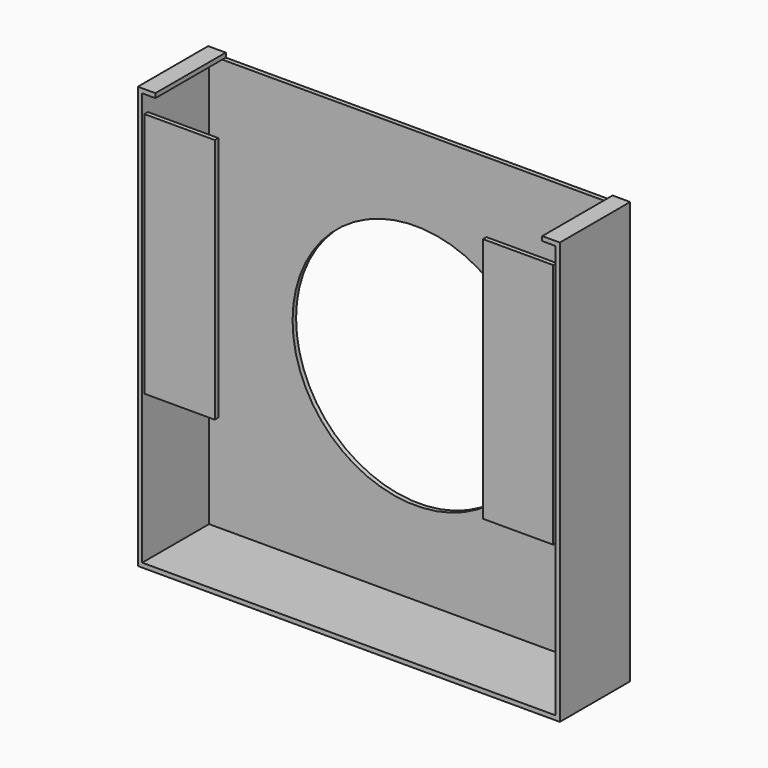
from build123d import *

# Parameters (mm, degrees)
F0_W     = 304.8
F0_H     = 304.8
F1_DEPTH = 63.5
F2_T     = -3.175
F3_R     = 88.9
F4_DEPTH = 3.175
F5_W     = 50.8
F5_H     = 177.8
F6_DEPTH = 3.175
F7_W     = 279.4
F7_H     = 63.5
F8_DEPTH = 3.175


with BuildPart() as f1:
    # F0 (on Front) → F1 (new body)
    with BuildSketch(Plane.XZ):
        Rectangle(F0_W, F0_H)
    extrude(amount=F1_DEPTH)

    # F2
    f2_openings = [f1.faces().sort_by_distance(p)[0] for p in [
        (0, -63.5, 0),
    ]]
    offset(amount=F2_T, openings=f2_openings)

    # F3 (on face) → F4 (cut, through all)
    with BuildSketch(Plane.XZ.offset(3.175)):
        Circle(F3_R)
    extrude(amount=-F4_DEPTH, mode=Mode.SUBTRACT)

    # F7 (on face) → F8 (cut)
    with BuildSketch(Plane.XY.offset(152.4)):
        with Locations((0, -31.75)):
            Rectangle(F7_W, F7_H)
    extrude(amount=-F8_DEPTH, mode=Mode.SUBTRACT)


with BuildPart() as f6:
    # F5 (on face) → F6 (new body)
    with BuildSketch(Plane.XZ.offset(63.5)):
        with Locations((-122.2375, 47.625)):
            Rectangle(F5_W, F5_H)
        with Locations((122.2375, 47.625)):
            Rectangle(F5_W, F5_H)
    extrude(amount=-F6_DEPTH)


with BuildPart() as f9_1:
    # F9: copy of F1
    add(f1.part)


solid = Compound([f1.part, f6.part, f9_1.part])
